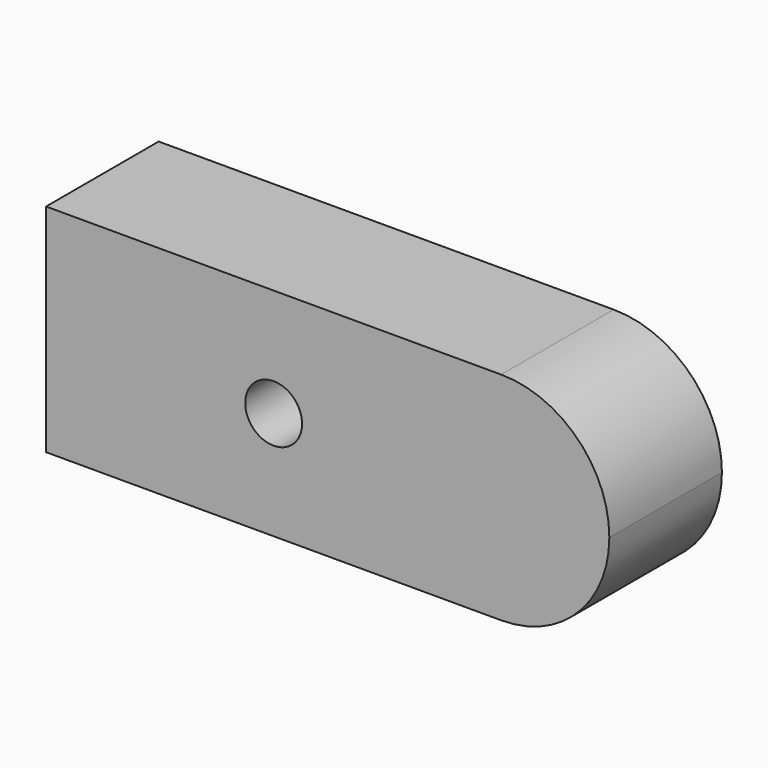
from build123d import *

# Parameters (mm, degrees)
F0_R     = 5.1303996858
F1_DEPTH = 25.4


with BuildPart() as f1:
    # F0 (on Front) → F1 (new body)
    with BuildSketch(Plane.XZ):
        with BuildLine():
            ThreePointArc((41.0692058504, -19.5193476975), (21.5498581529, 0), (41.0692058504, 19.5193476975))
            Line((41.0692058504, 19.5193476975), (-41.0692058504, 19.5193476975))
            Line((-41.0692058504, 19.5193476975), (-41.0692058504, -19.5193476975))
            Line((-41.0692058504, -19.5193476975), (41.0692058504, -19.5193476975))
        make_face()
        Circle(F0_R, mode=Mode.SUBTRACT)
        with BuildLine():
            ThreePointArc((60.5885535479, 0), (54.8714689716, 13.8022631212), (41.0692058504, 19.5193476975))
            Line((41.0692058504, 19.5193476975), (41.0692058504, -19.5193476975))
            ThreePointArc((41.0692058504, -19.5193476975), (54.8714689716, -13.8022631212), (60.5885535479, 0))
        make_face()
        with BuildLine():
            Line((41.0692058504, -19.5193476975), (41.0692058504, 19.5193476975))
            ThreePointArc((41.0692058504, 19.5193476975), (21.5498581529, 0), (41.0692058504, -19.5193476975))
        make_face()
    extrude(amount=F1_DEPTH)


solid = f1.part
